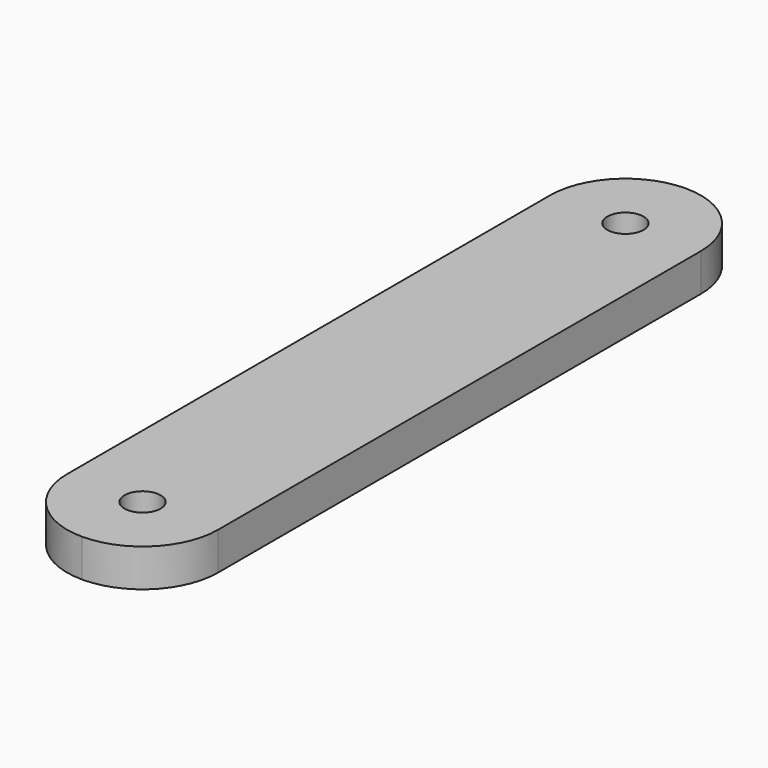
from build123d import *

# Parameters (mm, degrees)
F0_R     = 1.524
F1_DEPTH = 3.175


with BuildPart() as f1:
    # F0 (on Top) → F1 (new body)
    with BuildSketch(Plane.XY):
        with BuildLine():
            Line((6.35, -25.4), (6.35, 25.4))
            ThreePointArc((6.35, 25.4), (4.490128, 29.890128), (0, 31.75))
            ThreePointArc((0, 31.75), (-4.490128, 29.890128), (-6.35, 25.4))
            Line((-6.35, 25.4), (-6.35, -25.4))
            ThreePointArc((-6.35, -25.4), (-4.490128, -29.890128), (0, -31.75))
            ThreePointArc((0, -31.75), (4.490128, -29.890128), (6.35, -25.4))
        make_face()
        with Locations((0, -25.4)):
            Circle(F0_R, mode=Mode.SUBTRACT)
        with Locations((0, 25.4)):
            Circle(F0_R, mode=Mode.SUBTRACT)
    extrude(amount=F1_DEPTH)


solid = f1.part
